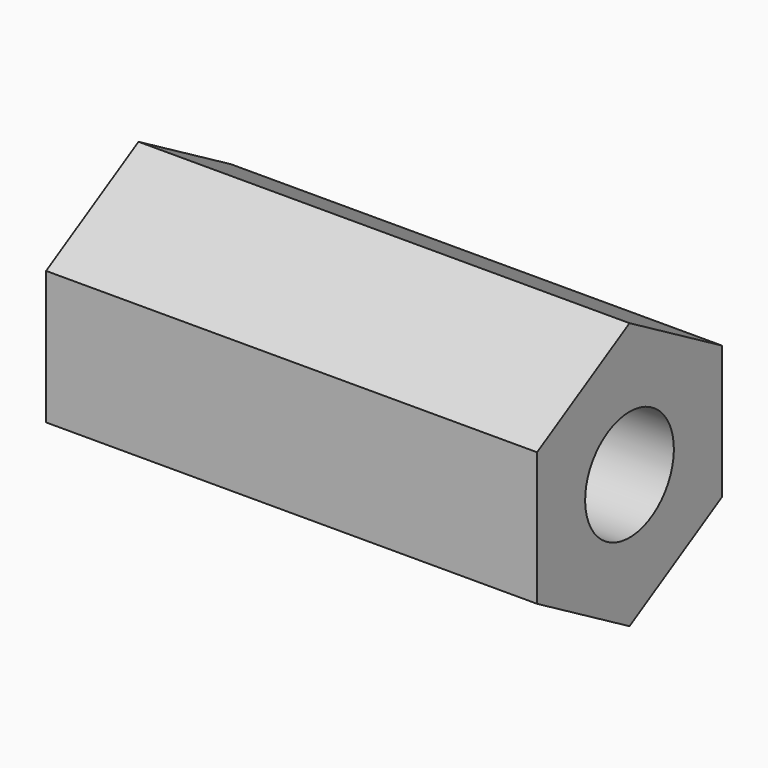
from build123d import *

# Parameters (mm, degrees)
F1_DEPTH = 53.975


with BuildPart() as f1:
    # F0 (on Right) → F1 (new body, symmetric)
    with BuildSketch(Plane.YZ):
        Polygon((-25.4, 14.664697), (-25.4, -14.664697), (0, -29.329394), (25.4, -14.664697), (25.4, 14.664697), (0, 29.329394), align=None)
    extrude(amount=F1_DEPTH, both=True)

    # F2 (on Front) → F3 (revolve, cut)
    with BuildSketch(Plane.XZ):
        Polygon((-53.975, 0), (53.975, 0), (53.975, 12.192), (-26.401746, 12.192), (-53.975, 20.543119), align=None)
    revolve(axis=Axis((-0.356656, 0, 0), (1, 0, 0)), mode=Mode.SUBTRACT)


solid = f1.part
